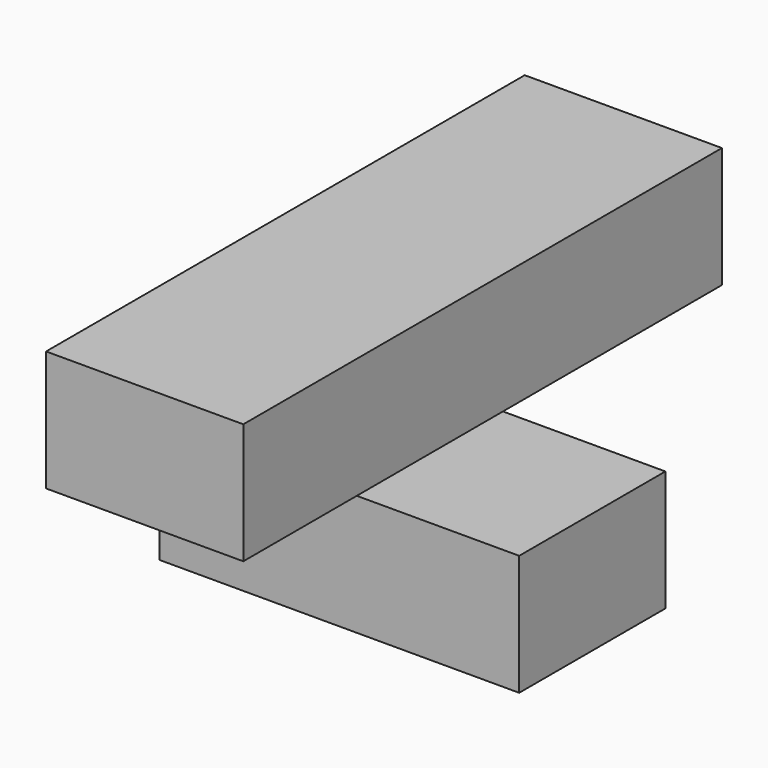
from build123d import *

# Parameters (mm, degrees)
F0_W     = 75.733259
F0_H     = 38.476009
F1_DEPTH = 25.4
F2_W     = 41.529719
F2_H     = 57.640523
F2_H_2   = 29.870573
F2_H_3   = 38.476009
F3_DEPTH = 25.4


with BuildPart() as f1:
    # F0 (on Top) → F1 (new body)
    with BuildSketch(Plane.XY):
        with Locations((37.866629, -19.238004)):
            Rectangle(F0_W, F0_H)
    extrude(amount=F1_DEPTH)

    # F2 (on face) → F3 (join)
    with BuildSketch(Plane.XY.offset(25.4)):
        with Locations((20.76486, 28.820261)):
            Rectangle(F2_W, F2_H)
        with Locations((20.76486, -53.411295)):
            Rectangle(F2_W, F2_H_2)
        with Locations((20.76486, -19.238004)):
            Rectangle(F2_W, F2_H_3)
    extrude(amount=F3_DEPTH)


solid = f1.part
